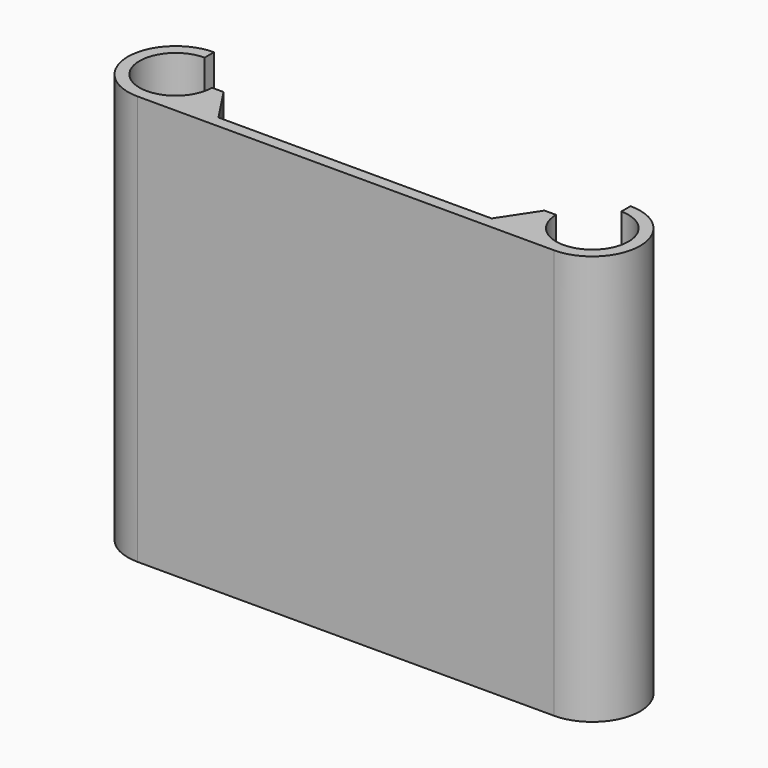
from build123d import *

# Parameters (mm, degrees)
F1_DEPTH = 30


with BuildPart() as f1:
    # F0 (on Top) → F1 (new body)
    with BuildSketch(Plane.XY):
        with BuildLine():
            ThreePointArc((0, -2.65), (-1.873833, -1.873833), (-2.65, 0))
            Line((-2.65, 0), (-3.5, 0))
            ThreePointArc((-3.5, 0), (-3.182162, -1.457343), (-2.286373, -2.65))
            Line((-2.286373, -2.65), (0, -2.65))
        make_face()
        with BuildLine():
            ThreePointArc((0, 2.65), (2.65, 0), (0, -2.65))
            Line((0, -2.65), (-2.286373, -2.65))
            ThreePointArc((-2.286373, -2.65), (-1.219631, -3.280625), (0, -3.5))
            ThreePointArc((0, -3.5), (3.5, 0), (0, 3.5))
            Line((0, 3.5), (0, 2.65))
        make_face()
        with BuildLine():
            ThreePointArc((-2.286373, -2.65), (-3.182162, -1.457343), (-3.5, 0))
            Line((-3.5, 0), (-5.25, -2.65))
            Line((-5.25, -2.65), (-2.286373, -2.65))
        make_face()
        with BuildLine():
            ThreePointArc((0, -3.5), (-1.219631, -3.280625), (-2.286373, -2.65))
            Line((-2.286373, -2.65), (-5.25, -2.65))
            Line((-5.25, -2.65), (-25.25, -2.65))
            Line((-25.25, -2.65), (-28.213627, -2.65))
            ThreePointArc((-28.213627, -2.65), (-29.280369, -3.280625), (-30.5, -3.5))
            Line((-30.5, -3.5), (0, -3.5))
        make_face()
        with BuildLine():
            Line((-28.213627, -2.65), (-25.25, -2.65))
            Line((-25.25, -2.65), (-27, 0))
            ThreePointArc((-27, 0), (-27.317838, -1.457343), (-28.213627, -2.65))
        make_face()
        with BuildLine():
            ThreePointArc((-30.5, 3.5), (-34, 0), (-30.5, -3.5))
            ThreePointArc((-30.5, -3.5), (-29.280369, -3.280625), (-28.213627, -2.65))
            Line((-28.213627, -2.65), (-30.5, -2.65))
            ThreePointArc((-30.5, -2.65), (-33.15, 0), (-30.5, 2.65))
            Line((-30.5, 2.65), (-30.5, 3.5))
        make_face()
        with BuildLine():
            Line((-30.5, -2.65), (-28.213627, -2.65))
            ThreePointArc((-28.213627, -2.65), (-27.317838, -1.457343), (-27, 0))
            Line((-27, 0), (-27.85, 0))
            ThreePointArc((-27.85, 0), (-28.626167, -1.873833), (-30.5, -2.65))
        make_face()
    extrude(amount=F1_DEPTH)


solid = f1.part
